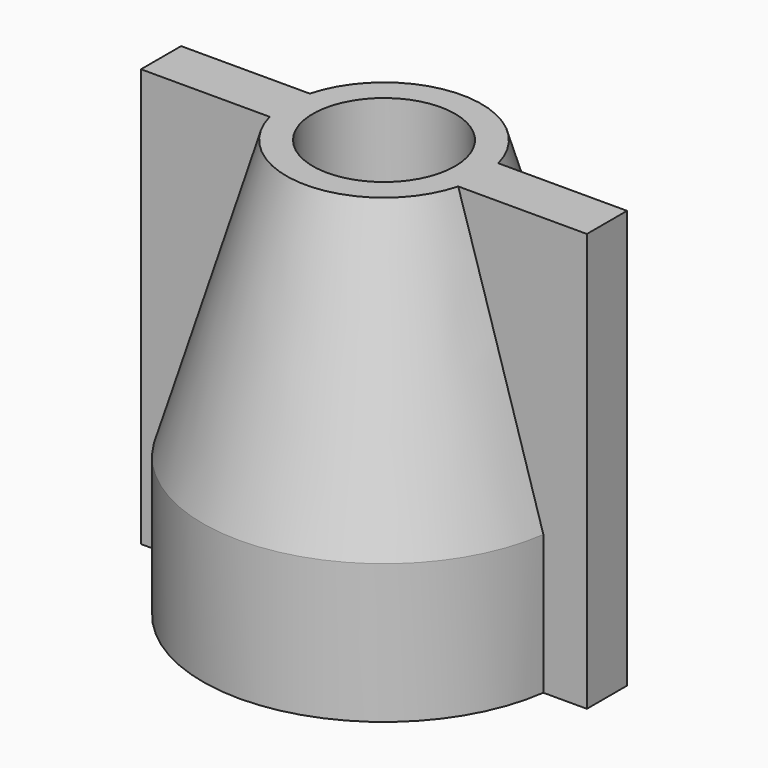
from build123d import *

# Parameters (mm, degrees)
F0_R     = 6.5
F1_DEPTH = 15
F2_SIZE2 = 10
F2_SIZE  = 3
F3_W     = 16
F3_H     = 1.8
F4_DEPTH = 15
F6_DEPTH = 4
F7_R     = 2.55
F8_DEPTH = 25


with BuildPart() as f1:
    # F0 (on Top) → F1 (new body)
    with BuildSketch(Plane.XY):
        Circle(F0_R)
    extrude(amount=F1_DEPTH)

    # F2
    f2_edges = [f1.edges().sort_by_distance(p)[0] for p in [
        (-6.5, 0, 15),
    ]]
    f2_side = f1.faces().sort_by_distance((0, 0, 15))[0]
    chamfer(f2_edges, length=F2_SIZE, length2=F2_SIZE2, reference=f2_side)

    # F3 (on face) → F4 (join)
    with BuildSketch(Plane.XY.offset(15)):
        Rectangle(F3_W, F3_H)
    extrude(amount=-F4_DEPTH)

    # F5 (on face) → F6 (cut)
    with BuildSketch(Plane(origin=(0, 0, 0), x_dir=(1, 0, 0), z_dir=(0, 0, -1))):
        Polygon((2.3803777429, -4.0253946143), (4.6762828677, 0.0487702888), (2.2959051248, 4.0741649031), (-2.3803777429, 4.0253946143), (-4.6762828677, -0.0487702888), (-2.2959051248, -4.0741649031), align=None)
    extrude(amount=-F6_DEPTH, mode=Mode.SUBTRACT)

    # F7 (on face) → F8 (cut)
    with BuildSketch(Plane.XY.offset(15)):
        Circle(F7_R)
    extrude(amount=-F8_DEPTH, mode=Mode.SUBTRACT)


solid = f1.part
